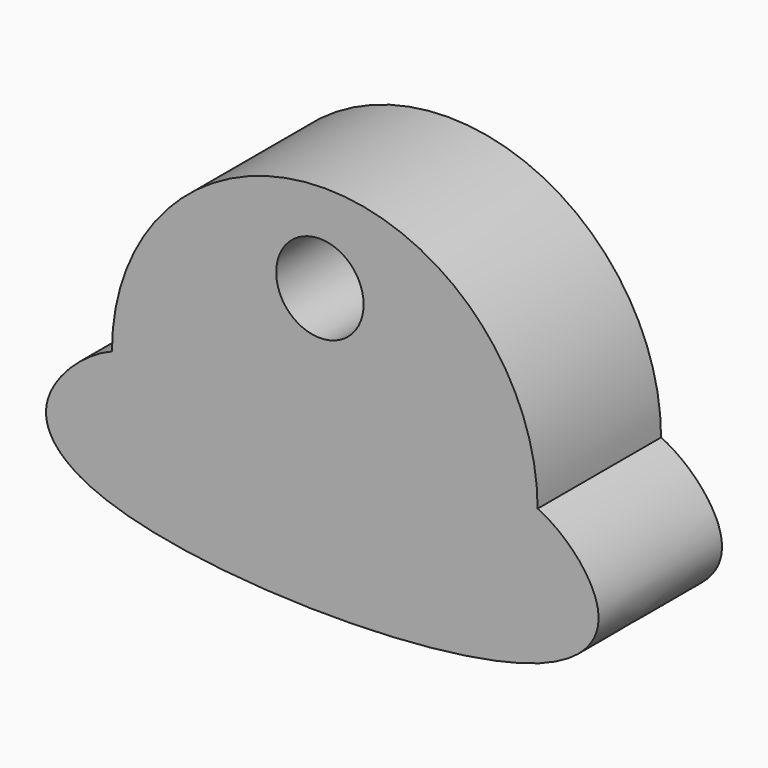
from build123d import *

# Parameters (mm, degrees)
F0_R     = 7.1955798472
F1_DEPTH = 25.4


with BuildPart() as f1:
    # F0 (on Front) → F1 (new body)
    with BuildSketch(Plane.XZ):
        with BuildLine():
            add(Edge.make_bspline(
                [(-34.2324674129, 0), (-38.9709343333, -1.8701103591), (-49.3639149977, -11.6012089013), (-34.5235237309, -27.7973191079), (36.5071676614, -28.3518525229), (49.6419955973, -11.7975858383), (40.4659600289, -2.1201473056), (35.8434021473, 0)],
                knots=[0, 0, 0, 0, 0.164137739, 0.3277635877, 0.6770423573, 0.837708853, 1, 1, 1, 1], degree=3))
            ThreePointArc((35.8434021473, 0), (0.8054673672, 35.0379347801), (-34.2324674129, 0))
        make_face()
        with Locations((0, 20.2709902078)):
            Circle(F0_R, mode=Mode.SUBTRACT)
    extrude(amount=F1_DEPTH)


solid = f1.part
